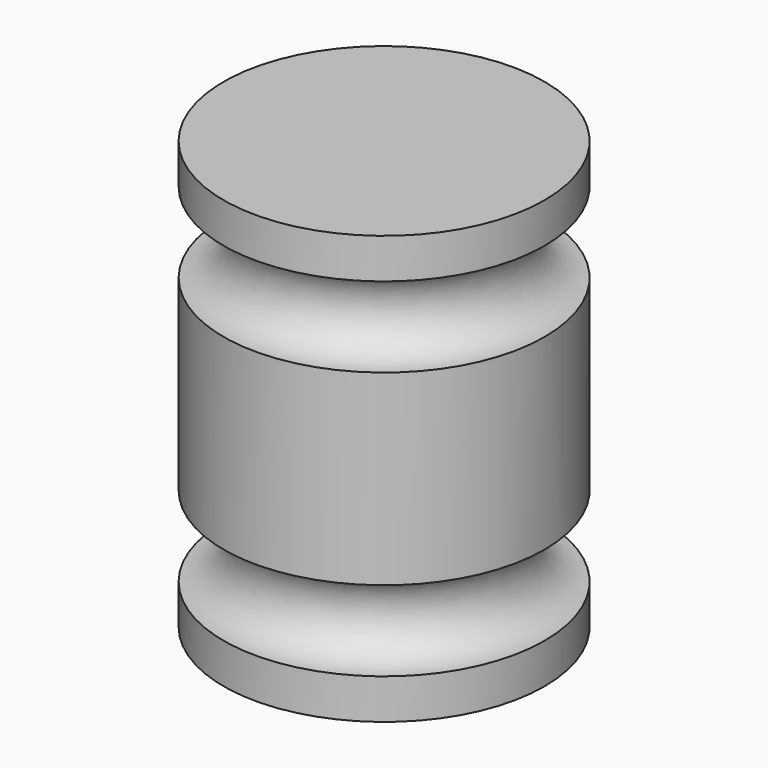
from build123d import *


with BuildPart() as f1:
    # F0 (on Front) → F1 (revolve)
    with BuildSketch(Plane.XZ):
        with BuildLine():
            Line((-38.1, 0), (0, 0))
            Line((0, 0), (0, 9.525))
            ThreePointArc((0, 9.525), (-9.525, 19.05), (0, 28.575))
            Line((0, 28.575), (0, 73.025))
            ThreePointArc((0, 73.025), (-9.525, 82.55), (0, 92.075))
            Line((0, 92.075), (0, 101.6))
            Line((0, 101.6), (-38.1, 101.6))
            Line((-38.1, 101.6), (-38.1, 0))
        make_face()
    revolve(axis=Axis((-38.1, 0, 50.8), (0, 0, 1)))


solid = f1.part
